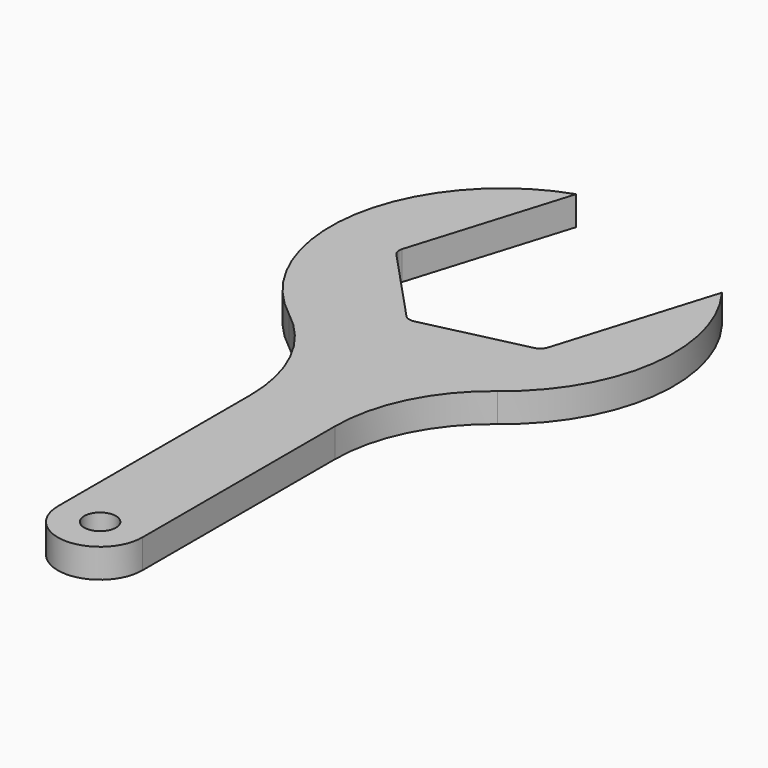
from build123d import *

# Parameters (mm, degrees)
F0_R     = 3
F1_DEPTH = 5.5


with BuildPart() as f1:
    # F0 (on Top) → F1 (new body)
    with BuildSketch(Plane.XY):
        with BuildLine():
            ThreePointArc((18.298141, -30.584477), (30.73943, -9.177777), (24.491548, 14.780446))
            Line((24.491548, 14.780446), (15.378926, -15.0256))
            ThreePointArc((15.378926, -15.0256), (14.830313, -15.903564), (13.916218, -16.389596))
            Line((13.916218, -16.389596), (-5.323088, -20.83134))
            ThreePointArc((-5.323088, -20.83134), (-6.357734, -20.79521), (-7.235698, -20.246597))
            Line((-7.235698, -20.246597), (-20.702014, -5.805741))
            ThreePointArc((-20.702014, -5.805741), (-21.188047, -4.891646), (-21.151916, -3.857))
            Line((-21.151916, -3.857), (-12.039293, 25.949045))
            ThreePointArc((-12.039293, 25.949045), (-33.541444, 0.429064), (-21.221859, -30.584477))
            ThreePointArc((-21.221859, -30.584477), (-12.562044, -41.121022), (-9.461859, -54.402588))
            Line((-9.461859, -54.402588), (-9.461859, -100))
            ThreePointArc((-9.461859, -100), (-1.461859, -108), (6.538141, -100))
            Line((6.538141, -100), (6.538141, -54.402588))
            ThreePointArc((6.538141, -54.402588), (9.638327, -41.121022), (18.298141, -30.584477))
        make_face()
        with Locations((-1.461859, -100)):
            Circle(F0_R, mode=Mode.SUBTRACT)
    extrude(amount=F1_DEPTH)


solid = f1.part
